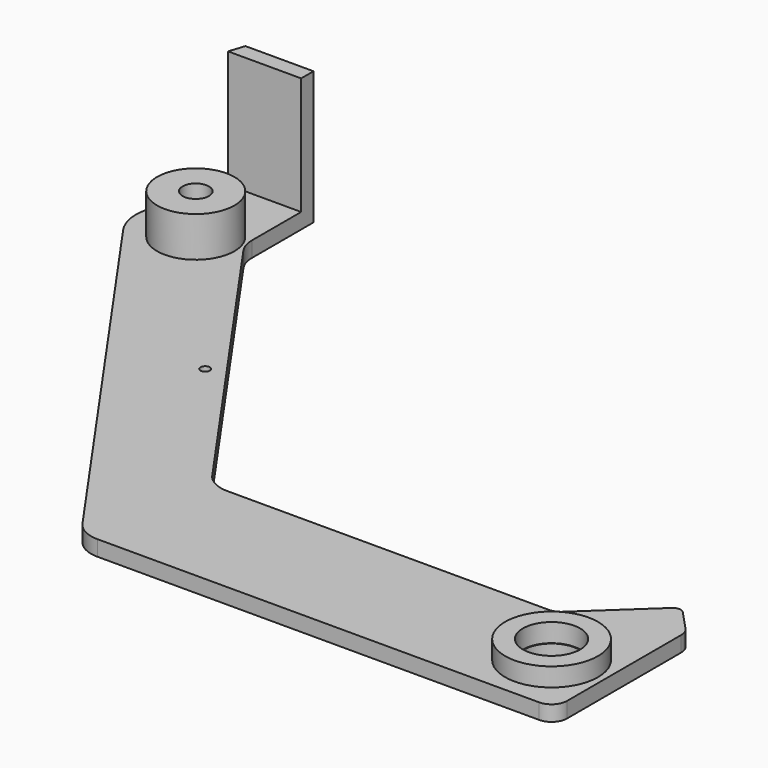
from build123d import *

# Parameters (mm, degrees)
F0_R          = 9
F0_R_2        = 1.5
F1_DEPTH      = 5
F3_DEPTH      = 43
F5_START      = 5
F4_R          = 12.5
F5_DEPTH      = 13
F6_R          = 4.25
F7_DEPTH      = 38.001
F7_DEPTH_BACK = 5.001
F8_R          = 15
F8_R_2        = 9.25
F9_DEPTH      = 6


with BuildPart() as f1:
    # F0 (on Top) → F1 (new body)
    with BuildSketch(Plane.XY):
        with BuildLine():
            Line((-147.7943294945, 0), (-5, 0))
            ThreePointArc((-5, 0), (-1.4644660941, 1.4644660941), (0, 5))
            Line((0, 5), (0, 51.1199510489))
            ThreePointArc((0, 51.1199510489), (-0.3479121601, 52.9524571825), (-1.3432314919, 54.5299428492))
            Line((-1.3432314919, 54.5299428492), (-7.5019819607, 61.1343941448))
            ThreePointArc((-7.5019819607, 61.1343941448), (-9.243117473, 61.9278753122), (-11.0353621149, 61.2577824987))
            Line((-11.0353621149, 61.2577824987), (-31.3187347787, 42.3432314919))
            ThreePointArc((-31.3187347787, 42.3432314919), (-32.8962204454, 41.3479121601), (-34.728726579, 41))
            Line((-34.728726579, 41), (-138.6588263095, 41))
            ThreePointArc((-138.6588263095, 41), (-143.2763124418, 42.1298916682), (-146.8503467524, 45.2642356365))
            Line((-146.8503467524, 45.2642356365), (-217.481318638, 146.1357173493))
            ThreePointArc((-217.481318638, 146.1357173493), (-218.8269677026, 148.8644237177), (-219.2897981952, 151.8714817128))
            Line((-219.2897981952, 151.8714817128), (-219.2897981952, 176.718493824))
            Line((-219.2897981952, 176.718493824), (-241.2897981952, 176.718493824))
            Line((-241.2897981952, 176.718493824), (-250.214761167, 149.2502822158))
            ThreePointArc((-250.214761167, 149.2502822158), (-250.784151373, 142.3978861332), (-248.2361940869, 136.0113807549))
            Line((-248.2361940869, 136.0113807549), (-155.9858499374, 4.2642356365))
            ThreePointArc((-155.9858499374, 4.2642356365), (-152.4118156268, 1.1298916682), (-147.7943294945, 0))
        make_face()
        with Locations((-17, 20)):
            Circle(F0_R, mode=Mode.SUBTRACT)
        with Locations((-184.6231163043, 89.6203838053)):
            Circle(F0_R_2, mode=Mode.SUBTRACT)
    extrude(amount=F1_DEPTH)

    # F2 (on face) → F3 (join)
    with BuildSketch(Plane(origin=(0, 0, 0), x_dir=(1, 0, 0), z_dir=(0, 0, -1))):
        Polygon((-242.9143966763, -171.718493824), (-241.2897981952, -176.718493824), (-219.2897981952, -176.718493824), (-219.2897981952, -171.718493824), align=None)
    extrude(amount=-F3_DEPTH)

    # F4 (on face) → F5 (join)
    with BuildSketch(Plane.XY.offset(F5_START)):
        with Locations((-231.5397981952, 144.468493824)):
            Circle(F4_R)
    extrude(amount=F5_DEPTH)

    # F6 (on face) → F7 (cut, two sides)
    with BuildSketch(Plane.XY.offset(5)) as f7_sk:
        with Locations((-231.5397981952, 144.468493824)):
            Circle(F6_R)
    extrude(amount=F7_DEPTH, mode=Mode.SUBTRACT)
    extrude(f7_sk.sketch, amount=-F7_DEPTH_BACK, mode=Mode.SUBTRACT)


with BuildPart() as f9:
    # F8 (on face) → F9 (new body)
    with BuildSketch(Plane.XY.offset(5)):
        with Locations((-17, 20)):
            Circle(F8_R)
        with Locations((-17, 20)):
            Circle(F8_R_2, mode=Mode.SUBTRACT)
    extrude(amount=F9_DEPTH)


solid = Compound([f1.part, f9.part])
